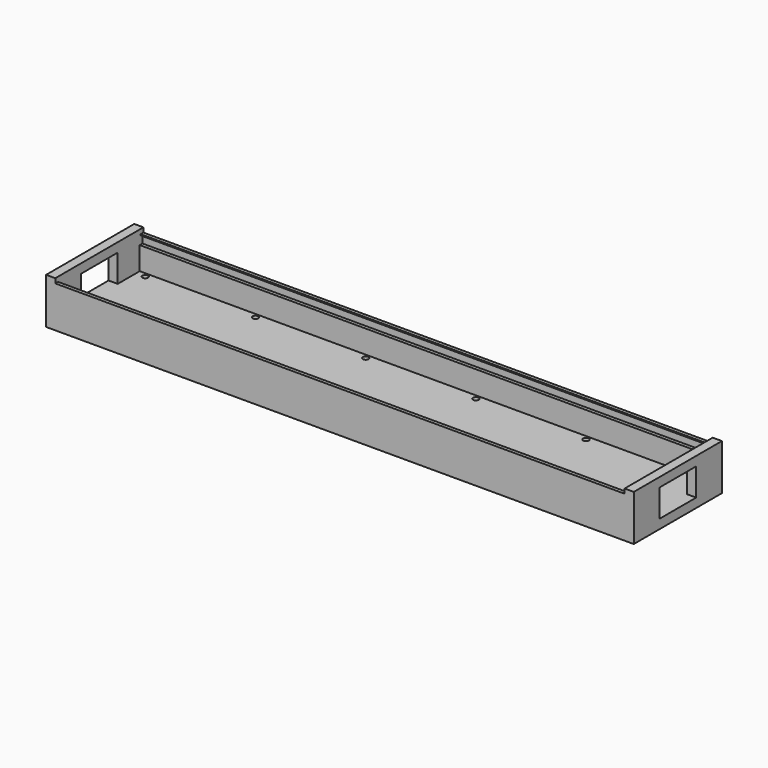
from build123d import *

# Parameters (mm, degrees)
F0_W     = 812.8
F0_H     = 152.4
F0_R     = 3.96875
F1_DEPTH = 12.7
F3_DEPTH = 12.7
F5_DEPTH = 12.7
F7_DEPTH = 393.7


with BuildPart() as f1:
    # F0 (on Top) → F1 (new body)
    with BuildSketch(Plane.XY):
        Rectangle(F0_W, F0_H)
        with Locations((-381, -63.5)):
            Circle(F0_R, mode=Mode.SUBTRACT)
        with Locations((-228.6, -63.5)):
            Circle(F0_R, mode=Mode.SUBTRACT)
        with Locations((-76.2, -63.5)):
            Circle(F0_R, mode=Mode.SUBTRACT)
        with Locations((76.2, -63.5)):
            Circle(F0_R, mode=Mode.SUBTRACT)
        with Locations((228.6, -63.5)):
            Circle(F0_R, mode=Mode.SUBTRACT)
        with Locations((381, -63.5)):
            Circle(F0_R, mode=Mode.SUBTRACT)
        with Locations((-381, 63.5)):
            Circle(F0_R, mode=Mode.SUBTRACT)
        with Locations((-228.6, 63.5)):
            Circle(F0_R, mode=Mode.SUBTRACT)
        with Locations((-76.2, 63.5)):
            Circle(F0_R, mode=Mode.SUBTRACT)
        with Locations((76.2, 63.5)):
            Circle(F0_R, mode=Mode.SUBTRACT)
        with Locations((228.6, 63.5)):
            Circle(F0_R, mode=Mode.SUBTRACT)
        with Locations((381, 63.5)):
            Circle(F0_R, mode=Mode.SUBTRACT)
    extrude(amount=F1_DEPTH)

    # F2 (on face) → F3 (join)
    with BuildSketch(Plane(origin=(-406.4, 0, 0), x_dir=(0, -1, 0), z_dir=(-1, 0, 0))):
        Polygon((76.2, 63.5), (-76.2, 63.5), (-76.2, 12.7), (-31.75, 12.7), (-31.75, 50.8), (31.75, 50.8), (31.75, 12.7), (76.2, 12.7), align=None)
    extrude(amount=-F3_DEPTH)

    # F4 (on face) → F5 (join)
    with BuildSketch(Plane.YZ.offset(406.4)):
        Polygon((-76.2, 63.5), (-76.2, 12.7), (-31.75, 12.7), (-31.75, 50.8), (31.75, 50.8), (31.75, 12.7), (76.2, 12.7), (76.2, 63.5), align=None)
    extrude(amount=-F5_DEPTH)

    # F6 (on Right) → F7 (join, symmetric)
    with BuildSketch(Plane.YZ):
        Polygon((69.85, 12.7), (76.2, 12.7), (76.2, 57.15), (71.4375, 57.15), (71.4375, 55.5625), (74.6125, 55.5625), (74.6125, 44.45), (69.85, 44.45), align=None)
        Polygon((-71.4375, 57.15), (-76.2, 57.15), (-76.2, 12.7), (-69.85, 12.7), (-69.85, 44.45), (-74.6125, 44.45), (-74.6125, 55.5625), (-71.4375, 55.5625), align=None)
    extrude(amount=F7_DEPTH, both=True)


solid = f1.part
